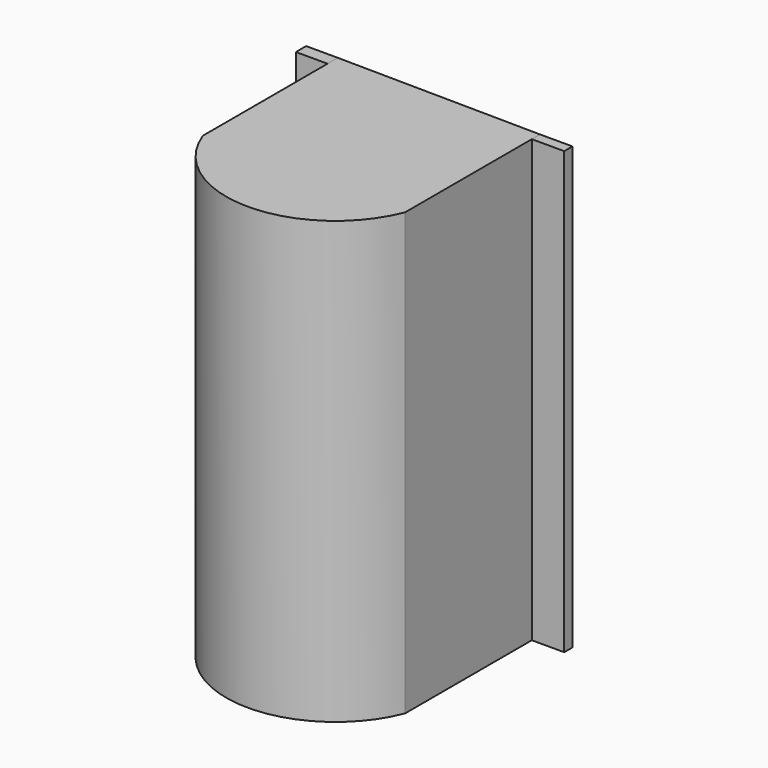
from build123d import *

# Parameters (mm, degrees)
F0_W     = 10.7713027203
F0_H     = 4.3658324032
F1_DEPTH = 150


with BuildPart() as f1:
    # F0 (on Top) → F1 (new body)
    with BuildSketch(Plane.XY):
        with Locations((-40.1170448261, 26.9363843127)):
            Rectangle(F0_W, F0_H)
    extrude(amount=F1_DEPTH)


with BuildPart() as f1b:
    # F0 (on Top) → F1, piece 2 (new body)
    with BuildSketch(Plane.XY):
        with BuildLine():
            Line((34.7202808191, 24.7534681112), (34.7202808191, 28.2474904971))
            Line((34.7202808191, 28.2474904971), (-34.731393466, 29.1193005143))
            Line((-34.731393466, 29.1193005143), (-34.7202808191, -28.2474904971))
            ThreePointArc((-34.7202808191, -28.2474904971), (-0.29543402, -52.661421541), (34.731393466, -29.1193005143))
            Line((34.731393466, -29.1193005143), (34.7209576539, 24.7534681112))
            Line((34.7209576539, 24.7534681112), (34.7202808191, 24.7534681112))
        make_face()
    extrude(amount=F1_DEPTH)


with BuildPart() as f1c:
    # F0 (on Top) → F1, piece 3 (new body)
    with BuildSketch(Plane.XY):
        Polygon((45.7453764975, 28.2474904971), (34.7202808191, 28.2474904971), (34.7209576539, 24.7534681112), (45.7453764975, 24.7534681112), align=None)
    extrude(amount=F1_DEPTH)


solid = Compound([f1.part, f1b.part, f1c.part])
